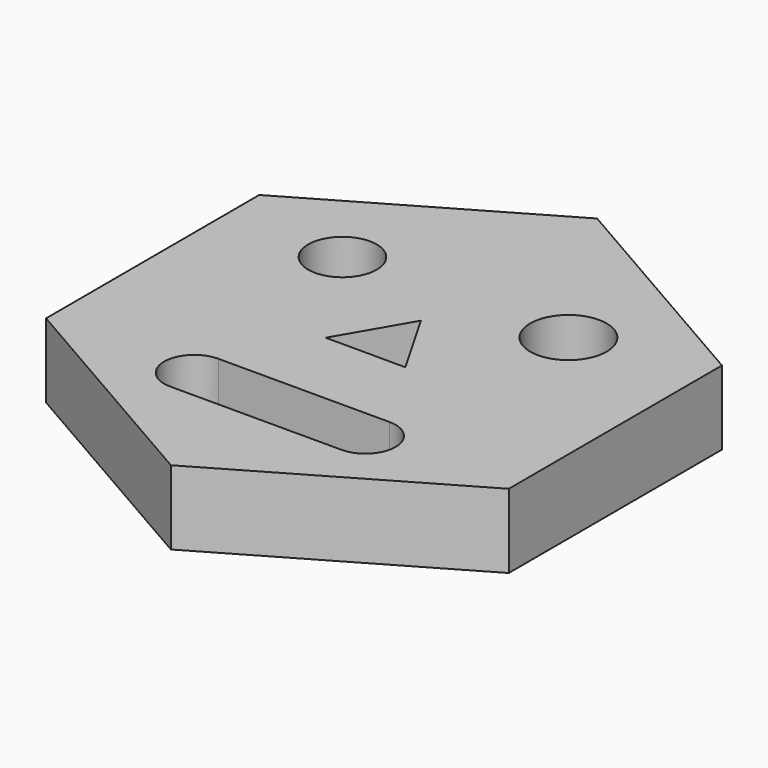
from build123d import *

# Parameters (mm, degrees)
SKETCH_R   = 4.618848
SKETCH_R_2 = 5.157962
PAD_DEPTH  = 10


with BuildPart() as part:
    # Sketch → Pad (new body)
    with BuildSketch(Plane.XY):
        Polygon((96.723577, 31.138338), (96.674117, 67.116094), (65.491737, 85.062138), (34.358817, 67.030427), (34.408277, 31.052671), (65.590657, 13.106627), align=None)
        with Locations((50.045269, 61.452663)):
            Circle(SKETCH_R, mode=Mode.SUBTRACT)
        with Locations((80.082733, 61.98597)):
            Circle(SKETCH_R_2, mode=Mode.SUBTRACT)
        with BuildLine():
            ThreePointArc((54.325382, 35.182339), (50.269895, 31.126852), (54.325382, 27.071365))
            Line((54.325382, 27.071365), (77.411652, 27.071365))
            ThreePointArc((77.411652, 27.071365), (81.467139, 31.126852), (77.411652, 35.182339))
            Line((54.325382, 35.182339), (77.411652, 35.182339))
        make_face(mode=Mode.SUBTRACT)
        Polygon((65.553779, 55.296537), (60.155022, 45.989201), (70.91479, 45.967409), align=None, mode=Mode.SUBTRACT)
    extrude(amount=PAD_DEPTH)


solid = part.part
